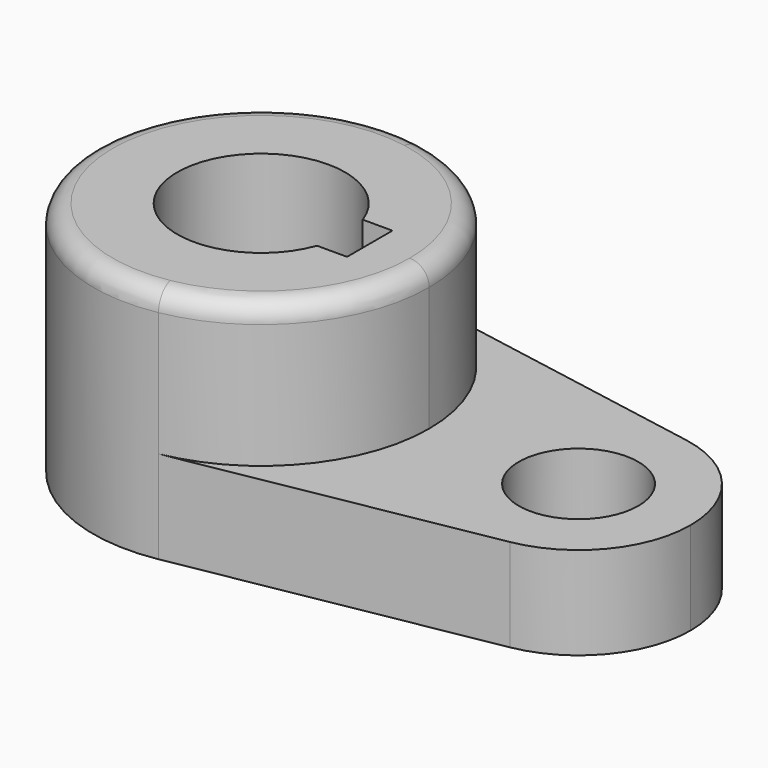
from build123d import *

# Parameters (mm, degrees)
F1_DEPTH = 40.2336
F0_R     = 10.16
F2_DEPTH = 15.7734
F3_R     = 3.302


with BuildPart() as f1:
    # F0 (on Top) → F1 (new body)
    with BuildSketch(Plane.XY):
        with BuildLine():
            ThreePointArc((5.042647, -28.126541), (21.916025, -18.336262), (28.575, 0))
            ThreePointArc((28.575, 0), (21.916025, 18.336262), (5.042647, 28.126541))
            ThreePointArc((5.042647, 28.126541), (-28.575, 0), (5.042647, -28.126541))
        make_face()
        with BuildLine():
            ThreePointArc((13.418354, -4.907181), (-14.28724, 0.086251), (13.476622, 4.744819))
            Line((13.476622, 4.744819), (18.5293, 4.744819))
            Line((18.5293, 4.744819), (18.5293, -4.907181))
            Line((18.5293, -4.907181), (13.418354, -4.907181))
        make_face(mode=Mode.SUBTRACT)
    extrude(amount=F1_DEPTH)

    # F0 (on Top) → F2 (join)
    with BuildSketch(Plane.XY):
        with BuildLine():
            ThreePointArc((73.025, 0), (68.585683, 12.224174), (57.336765, 18.751028))
            ThreePointArc((57.336765, 18.751028), (34.925, 0), (57.336765, -18.751028))
            ThreePointArc((57.336765, -18.751028), (68.585683, -12.224174), (73.025, 0))
        make_face()
        with Locations((53.975, 0)):
            Circle(F0_R, mode=Mode.SUBTRACT)
        with BuildLine():
            ThreePointArc((5.042647, 28.126541), (21.916025, 18.336262), (28.575, 0))
            ThreePointArc((28.575, 0), (21.916025, -18.336262), (5.042647, -28.126541))
            Line((5.042647, -28.126541), (57.336765, -18.751028))
            ThreePointArc((57.336765, -18.751028), (34.925, 0), (57.336765, 18.751028))
            Line((57.336765, 18.751028), (5.042647, 28.126541))
        make_face()
    extrude(amount=F2_DEPTH)

    # F3
    f3_edges = [f1.edges().sort_by_distance(p)[0] for p in [
        (-5.042647, 28.126541, 40.2336),
    ]]
    fillet(f3_edges, radius=F3_R)


solid = f1.part
